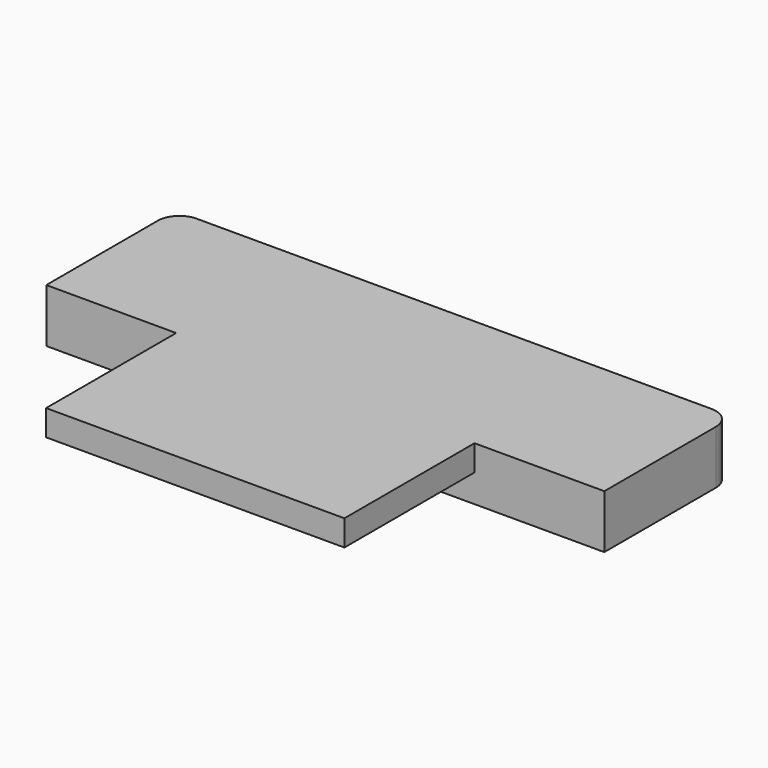
from build123d import *

# Parameters (mm, degrees)
BOX044_W     = 52
BOX044_H     = 15
BOX044_DEPTH = 5
FILLET008_R  = 2
BOX043_W     = 27.8
BOX043_H     = 15.15
BOX043_DEPTH = 2.4


with BuildPart() as fillet008:
    # Box044 → Box044 (new body)
    with BuildSketch(Plane(origin=(-4, 17.15, 0), x_dir=(1, 0, 0), z_dir=(0, 0, 1))):
        with Locations((26, 7.5)):
            Rectangle(BOX044_W, BOX044_H)
    extrude(amount=BOX044_DEPTH)

    # Fillet008
    fillet008_edges = [fillet008.edges().sort_by_distance(p)[0] for p in [
        (-4, 32.15, 2.5),
        (48, 32.15, 2.5),
    ]]
    fillet(fillet008_edges, radius=FILLET008_R)


with BuildPart() as exterior_parte2_v2:
    # Box043 → Box043 (new body)
    with BuildSketch(Plane(origin=(8.1, 2, 2.6), x_dir=(1, 0, 0), z_dir=(0, 0, 1))):
        with Locations((13.9, 7.575)):
            Rectangle(BOX043_W, BOX043_H)
    extrude(amount=BOX043_DEPTH)

    # Fusion023005: union Fillet008
    add(fillet008.part)


with BuildPart() as exterior_parte2_v2_1:
    # Fusion023005 placement: moved
    add(exterior_parte2_v2.part.moved(Location((0, -2, 0))))


solid = exterior_parte2_v2_1.part
